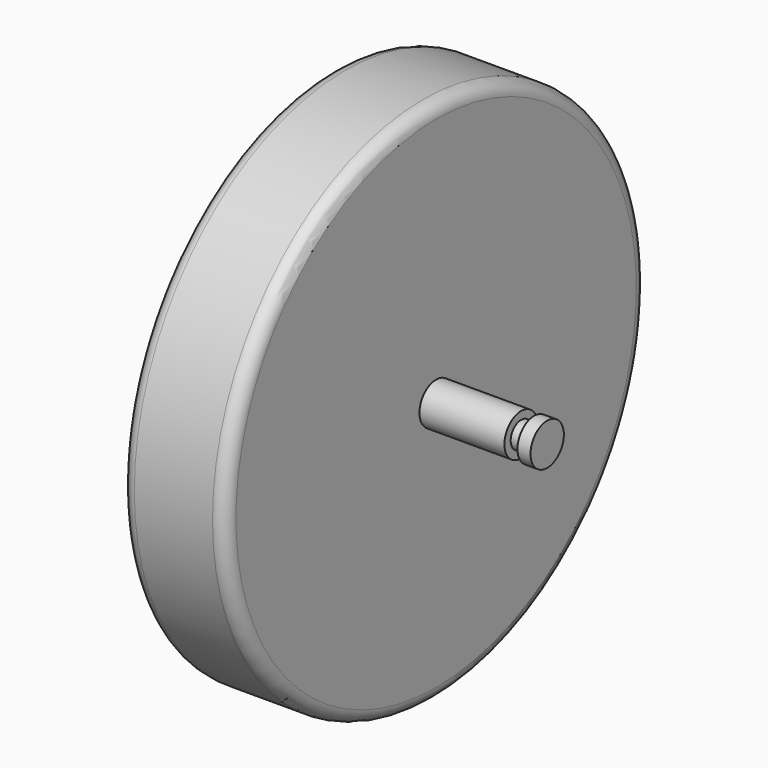
from build123d import *


with BuildPart() as f1:
    # F0 (on Front) → F1 (revolve)
    with BuildSketch(Plane.XZ):
        with BuildLine():
            Line((-57.507594, 8), (-62.5, 8))
            Line((-62.5, 8), (-62.5, 0))
            Line((-62.5, 0), (-20.108948, 0))
            Line((-20.108948, 0), (19.891052, 0))
            Line((19.891052, 0), (62.5, 0))
            Line((62.5, 0), (62.5, 8))
            Line((62.5, 8), (57.492453, 8))
            Line((57.492453, 8), (57.492453, 5))
            Line((57.492453, 5), (52.492453, 5))
            Line((52.492453, 5), (52.492453, 8))
            Line((52.492453, 8), (19.891052, 8))
            Line((19.891052, 8), (19.891052, 96))
            ThreePointArc((19.891052, 96), (18.426586, 99.535534), (14.891052, 101))
            Line((14.891052, 101), (-15.108948, 101))
            ThreePointArc((-15.108948, 101), (-18.644481, 99.535534), (-20.108948, 96))
            Line((-20.108948, 96), (-20.108948, 8))
            Line((-20.108948, 8), (-52.507594, 8))
            Line((-52.507594, 8), (-52.507594, 5))
            Line((-52.507594, 5), (-57.507594, 5))
            Line((-57.507594, 5), (-57.507594, 8))
        make_face()
    revolve(axis=Axis((-6.764503, 0, 0), (1, 0, 0)))


solid = f1.part
